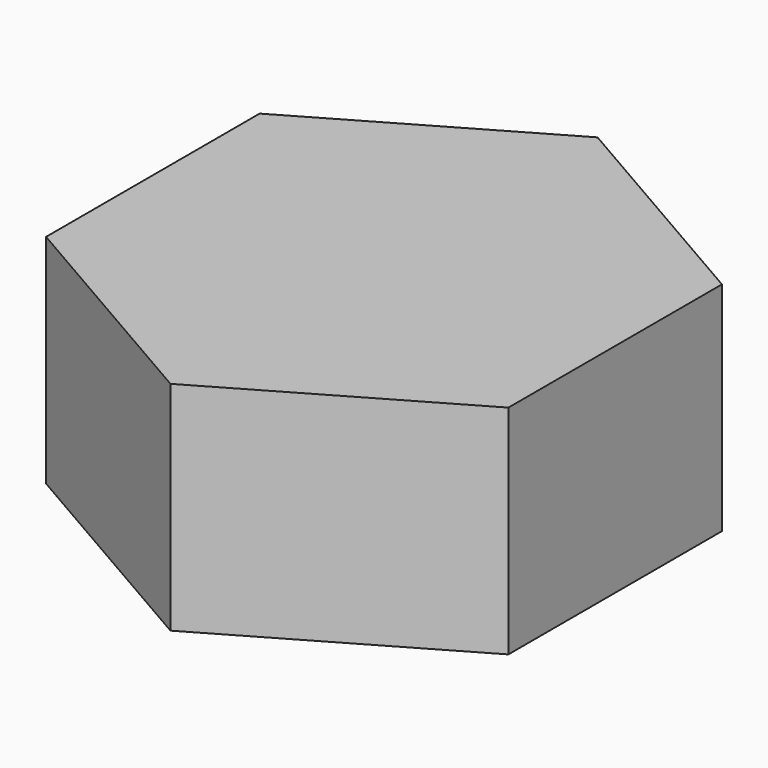
from build123d import *

# Parameters (mm, degrees)
SKETCH001_R  = 7
POCKET_DEPTH = 4.701
PAD_DEPTH    = 4.7


with BuildPart() as sem_rosca:
    # Sketch → Revolution (revolve)
    with BuildSketch(Plane.XZ):
        Polygon((3, 0), (2.5, 0.288675), (2.5, 4.411325), (3, 4.7), (4.9, 4.7), (6, 4.064915), (6, 0.635085), (4.9, 0), align=None)
    revolve(axis=Axis((0, 0, 0), (0, 0, 1)))

    # Sketch001 (on Face4 of Revolution) → Pocket (cut, through all)
    with BuildSketch(Plane(origin=(0, 0, 4.7), x_dir=(-1, 0, 0), z_dir=(0, 0, 1))):
        Circle(SKETCH001_R)
        Polygon((0, -5.773503), (5, -2.886751), (5, 2.886751), (0, 5.773503), (-5, 2.886751), (-5, -2.886751), align=None, mode=Mode.SUBTRACT)
    extrude(amount=-POCKET_DEPTH, mode=Mode.SUBTRACT)


with BuildPart() as body001:
    # Sketch002 → Pad (new body)
    with BuildSketch(Plane.XY):
        Polygon((0, 5.773503), (-5, 2.886751), (-5, -2.886751), (0, -5.773503), (5, -2.886751), (5, 2.886751), align=None)
    extrude(amount=PAD_DEPTH)


solid = Compound([sem_rosca.part, body001.part])
